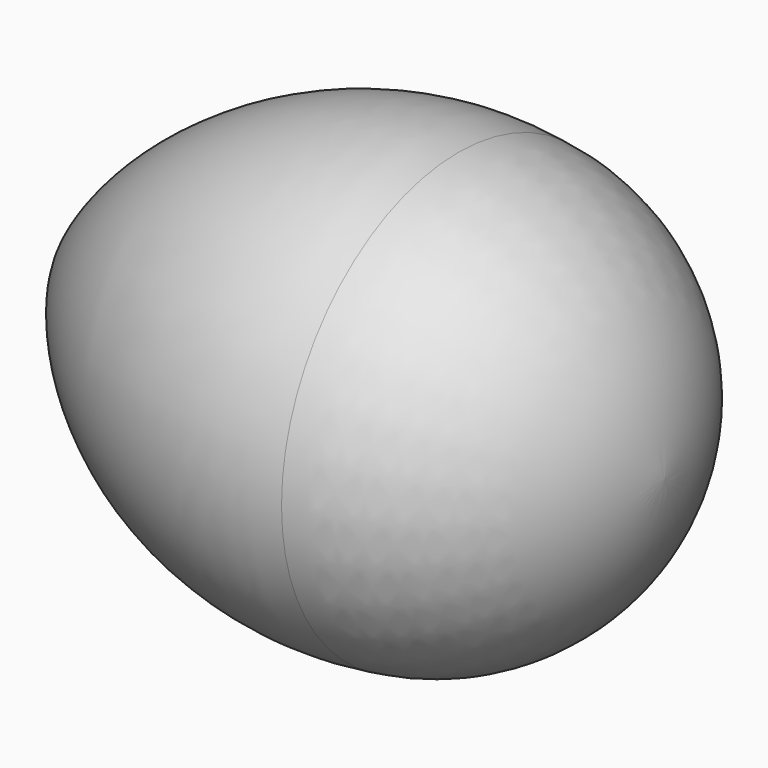
from build123d import *


with BuildPart() as f1:
    # F0 (on Front) → F1 (revolve)
    with BuildSketch(Plane.XZ):
        with BuildLine():
            ThreePointArc((-79.702541, -23.476487), (-80.764627, -25.304326), (-81.338982, -27.338812))
            Line((-81.338982, -27.338812), (-31.338982, -27.338812))
            ThreePointArc((-31.338982, -27.338812), (-36.51917, -14.891007), (-48.560284, -8.82522))
            ThreePointArc((-48.560284, -8.82522), (-66.304655, -11.531481), (-79.702541, -23.476487))
        make_face()
    revolve(axis=Axis((-56.338982, 0, -27.338812), (1, 0, 0)))


solid = f1.part
